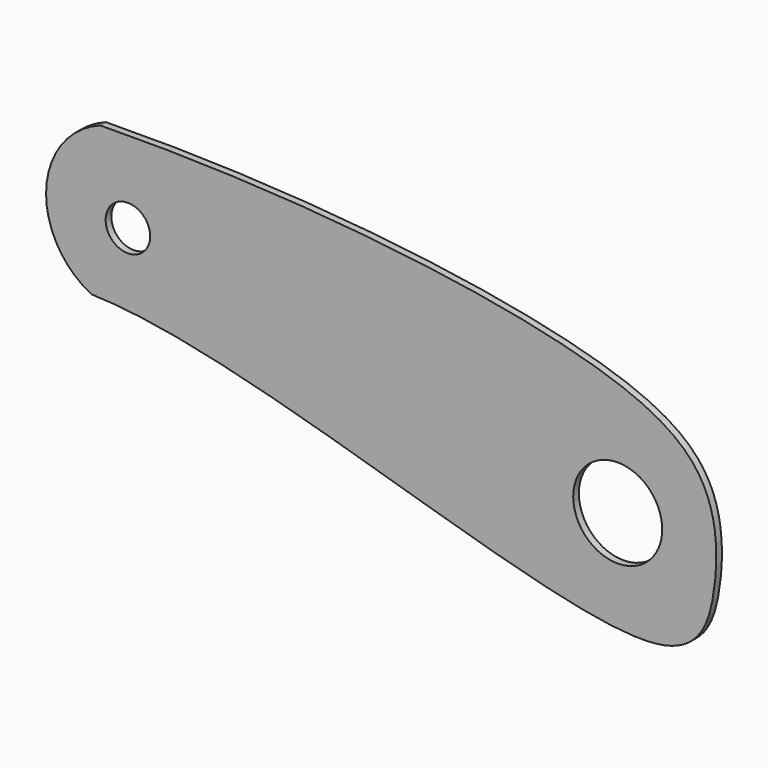
from build123d import *

# Parameters (mm, degrees)
F1_DEPTH = 0.508
F2_D     = 6.35
F3_D     = 3.175


with BuildPart() as f1:
    # F0 (on Front) → F1 (new body)
    with BuildSketch(Plane.XZ):
        with BuildLine():
            add(Edge.make_bspline(
                [(11.7170246186, 27.5181992918), (26.2255903847, 27.7629586116), (48.3846492687, 25.0700674705), (55.6356924136, 19.3540475045), (55.8687851234, 12.478221614), (52.7926576137, 3.0913798232), (22.8349964924, 16.4619868897), (11.0743273574, 16.709885222)],
                knots=[0.3296138166, 0.3296138166, 0.3296138166, 0.3296138166, 0.480499723, 0.5607025722, 0.6289296599, 0.6976911092, 0.8631531697, 0.8631531697, 0.8631531697, 0.8631531697], degree=3))
            ThreePointArc((11.7170246186, 27.5181992918), (7.864434674, 22.32402127), (11.0743273574, 16.709885222))
        make_face()
    extrude(amount=F1_DEPTH)

    # F2 (through all)
    with Locations(Plane(origin=(0, 0, 0), x_dir=(1, 0, 0), z_dir=(0, 1, 0))):
        with Locations((48.6235208809, -15.1863284409)):
            Hole(F2_D / 2)

    # F3 (through all)
    with Locations(Plane(origin=(0, 0, 0), x_dir=(1, 0, 0), z_dir=(0, 1, 0))):
        with Locations((13.6874951422, -21.7128396034)):
            Hole(F3_D / 2)


solid = f1.part
